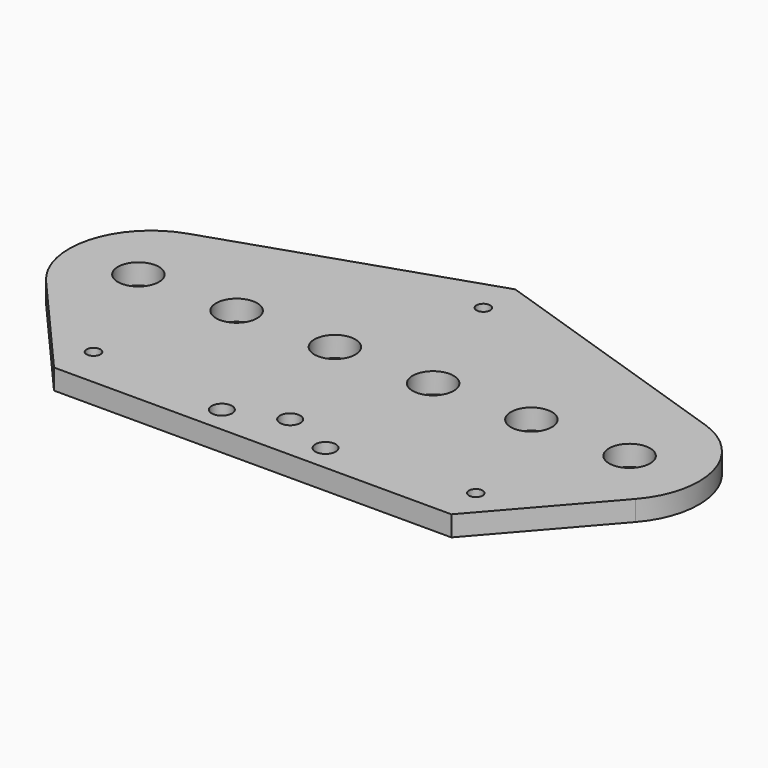
from build123d import *

# Parameters (mm, degrees)
F0_R     = 0.8001
F0_R_2   = 1.1811
F0_R_3   = 2.38125
F1_DEPTH = 2.3622


with BuildPart() as f1:
    # F0 (on Top) → F1 (new body)
    with BuildSketch(Plane.XY):
        with BuildLine():
            Line((-23.064947, -19.05), (0, -19.05))
            Line((0, -19.05), (23.064947, -19.05))
            Line((23.064947, -19.05), (34.217403, -6.259881))
            ThreePointArc((34.217403, -6.259881), (36.228268, 2.504018), (30.049558, 9.036479))
            Line((30.049558, 9.036479), (0, 19.05))
            Line((0, 19.05), (-30.049558, 9.036479))
            ThreePointArc((-30.049558, 9.036479), (-36.228268, 2.504018), (-34.217403, -6.259881))
            Line((-34.217403, -6.259881), (-23.064947, -19.05))
        make_face()
        with Locations((-22.1869, -14.4145)):
            Circle(F0_R, mode=Mode.SUBTRACT)
        with Locations((-6.016295, -16.003957)):
            Circle(F0_R_2, mode=Mode.SUBTRACT)
        with Locations((6.016295, -16.003957)):
            Circle(F0_R_2, mode=Mode.SUBTRACT)
        with Locations((0, -13.617562)):
            Circle(F0_R_2, mode=Mode.SUBTRACT)
        with Locations((22.1869, -14.4145)):
            Circle(F0_R, mode=Mode.SUBTRACT)
        with Locations((-28.5115, 0)):
            Circle(F0_R_3, mode=Mode.SUBTRACT)
        with Locations((-17.1069, 0)):
            Circle(F0_R_3, mode=Mode.SUBTRACT)
        with Locations((-5.7023, 0)):
            Circle(F0_R_3, mode=Mode.SUBTRACT)
        with Locations((5.7023, 0)):
            Circle(F0_R_3, mode=Mode.SUBTRACT)
        with Locations((17.1069, 0)):
            Circle(F0_R_3, mode=Mode.SUBTRACT)
        with Locations((28.5115, 0)):
            Circle(F0_R_3, mode=Mode.SUBTRACT)
        with Locations((0, 14.4145)):
            Circle(F0_R, mode=Mode.SUBTRACT)
    extrude(amount=F1_DEPTH)


solid = f1.part
